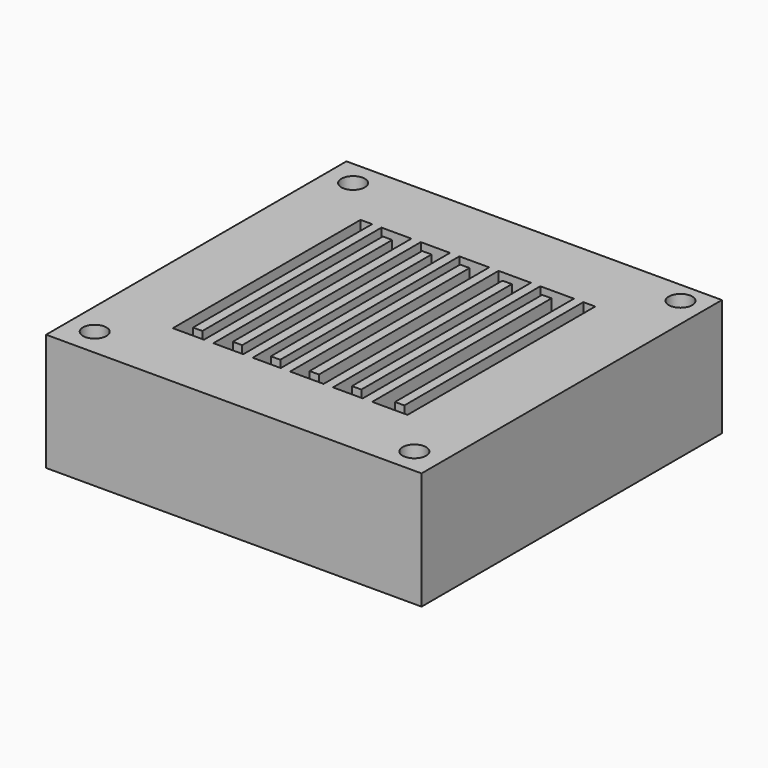
from build123d import *

# Parameters (mm, degrees)
F0_W     = 80
F0_H     = 80
F3_DEPTH = 25
F4_T     = -15
F1_W     = 2
F1_H     = 48
F2_W     = 2
F2_H     = 48
F6_DEPTH = 25
F7_D     = 2
F9_D     = 5


with BuildPart() as f3:
    # F0 (on Top) → F3 (new body)
    with BuildSketch(Plane.XY):
        Rectangle(F0_W, F0_H)
    extrude(amount=F3_DEPTH)

    # F4
    f4_openings = [f3.faces().sort_by_distance(p)[0] for p in [
        (0, 0, 25),
    ]]
    offset(amount=F4_T, openings=f4_openings)

    # F1 (on face) + F2 (on face) → F6 (join)
    with BuildSketch(Plane.XY):
        with Locations((-21.533683, 1.29566)):
            Rectangle(F1_W, F1_H)
    with BuildSketch(Plane.XY):
        with Locations((-17.357037, -1.363026)):
            Rectangle(F2_W, F2_H)
        with Locations((-13.159431, 1.430389)):
            Rectangle(F2_W, F2_H)
        with Locations((-8.982785, -1.363026)):
            Rectangle(F2_W, F2_H)
        with Locations((-4.940869, 1.29566)):
            Rectangle(F2_W, F2_H)
        with Locations((-1, -1.228295)):
            Rectangle(F2_W, F2_H)
        with Locations((3.412425, 1.160929)):
            Rectangle(F2_W, F2_H)
        with Locations((8.127995, -1.363026)):
            Rectangle(F2_W, F2_H)
        with Locations((12.304641, 1.331586)):
            Rectangle(F2_W, F2_H)
        with Locations((16.481286, -1.228295)):
            Rectangle(F2_W, F2_H)
        with Locations((21.466319, 1.331586)):
            Rectangle(F2_W, F2_H)
    extrude(amount=F6_DEPTH)

    # F7 (through all)
    with Locations(Plane.XY.offset(15)):
        with Locations((-23.611529, 23.544163), (23.678893, 23.409432)):
            Hole(F7_D / 2)

    # F9 (through all)
    with Locations(Plane.XY.offset(25)):
        with Locations((-34.25524, 34.592066), (34.8069, 35.473198), (34.113035, -34.558825), (-34.355238, -34.1)):
            Hole(F9_D / 2)


solid = f3.part
